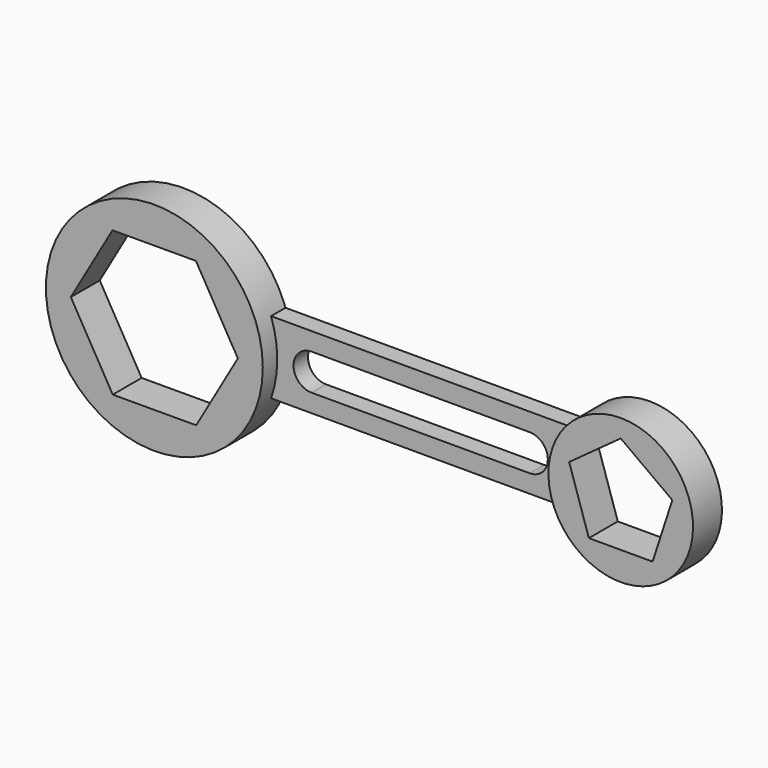
from build123d import *

# Parameters (mm, degrees)
F1_DEPTH = 254
F2_DEPTH = 127


with BuildPart() as f1:
    # F0 (on Front) → F1 (new body)
    with BuildSketch(Plane.XZ):
        with BuildLine():
            ThreePointArc((718.4204896855, -254), (751.026102456, -128.855707789), (762, 0))
            ThreePointArc((762, 0), (751.026102456, 128.855707789), (718.4204896855, 254))
            ThreePointArc((718.4204896855, 254), (-762, 0), (718.4204896855, -254))
        make_face()
        Polygon((0, 508), (292.2779368052, 508.5838847358), (586.5855325392, 1.1718241289), (294.307595734, -507.4120606069), (-292.2779368052, -508.5838847358), (-586.5855325392, -1.1718241289), (-294.307595734, 507.4120606069), align=None, mode=Mode.SUBTRACT)
    extrude(amount=F1_DEPTH)


with BuildPart() as f1b:
    # F0 (on Front) → F1, piece 2 (new body)
    with BuildSketch(Plane.XZ):
        with BuildLine():
            ThreePointArc((3784.6, 0), (3408.0800749121, 490.6903197548), (2836.6590948775, 254))
            ThreePointArc((2836.6590948775, 254), (2785.9096802452, 131.4800749121), (2768.6, 0))
            ThreePointArc((2768.6, 0), (2785.9096802452, -131.4800749121), (2836.6590948775, -254))
            ThreePointArc((2836.6590948775, -254), (3408.0800749121, -490.6903197548), (3784.6, 0))
        make_face()
        Polygon((3052.6553178068, -308.2365638878), (2914.2468947565, 117.7337127604), (3276.5981472237, 380.9999999955), (3638.9519601648, 117.7372369505), (3500.5476800483, -308.2343858186), align=None, mode=Mode.SUBTRACT)
    extrude(amount=F1_DEPTH)


with BuildPart() as f2:
    # F0 (on Front) → F2 (new body)
    with BuildSketch(Plane.XZ):
        with BuildLine():
            Line((2836.6590948775, 254), (1765.3, 254))
            Line((1765.3, 254), (1765.3, 127))
            Line((1765.3, 127), (2535.7744693756, 127))
            ThreePointArc((2535.7744693756, 127), (2625.5770305863, 89.8025612107), (2662.7744693756, 0))
            Line((2662.7744693756, 0), (2756.9261211395, 0))
            Line((2756.9261211395, 0), (2768.6, 0))
            ThreePointArc((2768.6, 0), (2785.9096802452, 131.4800749121), (2836.6590948775, 254))
        make_face()
        with BuildLine():
            ThreePointArc((718.4204896855, 254), (751.026102456, 128.855707789), (762, 0))
            Line((762, 0), (876.3, 0))
            ThreePointArc((876.3, 0), (913.4974387893, 89.8025612107), (1003.3, 127))
            Line((1003.3, 127), (1765.3, 127))
            Line((1765.3, 127), (1765.3, 254))
            Line((1765.3, 254), (718.4204896855, 254))
        make_face()
        with BuildLine():
            Line((876.3, 0), (762, 0))
            ThreePointArc((762, 0), (751.026102456, -128.855707789), (718.4204896855, -254))
            Line((718.4204896855, -254), (1765.3, -254))
            Line((1765.3, -254), (2836.6590948775, -254))
            ThreePointArc((2836.6590948775, -254), (2785.9096802452, -131.4800749121), (2768.6, 0))
            Line((2768.6, 0), (2756.9261211395, 0))
            Line((2756.9261211395, 0), (2662.7744693756, 0))
            ThreePointArc((2662.7744693756, 0), (2625.5770305863, -89.8025612107), (2535.7744693756, -127))
            Line((2535.7744693756, -127), (1003.3, -127))
            ThreePointArc((1003.3, -127), (913.4974387893, -89.8025612107), (876.3, 0))
        make_face()
    extrude(amount=F2_DEPTH)


solid = Compound([f1.part, f1b.part, f2.part])
